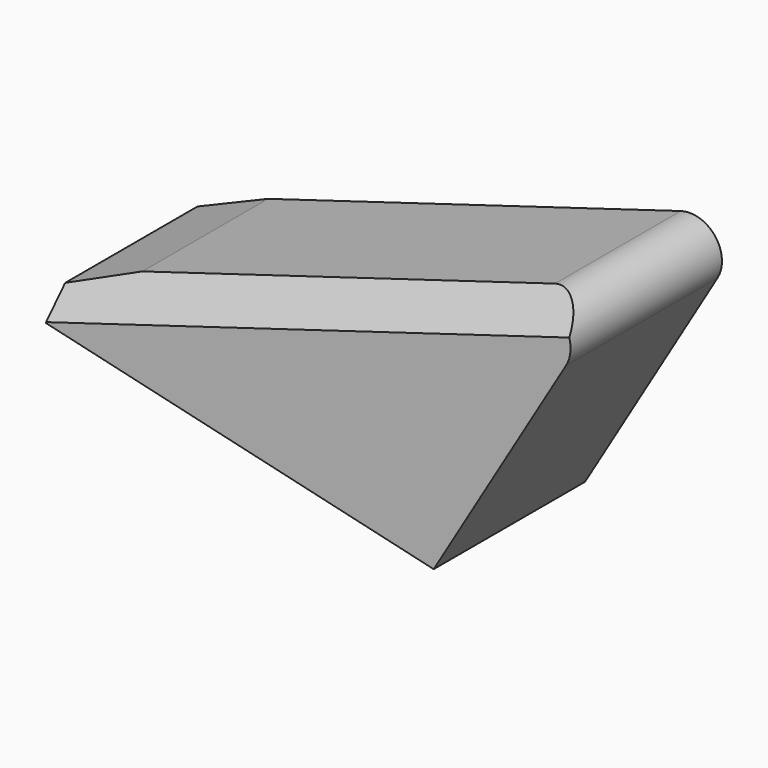
from build123d import *

# Parameters (mm, degrees)
F1_DEPTH = 30
F2_SIZE  = 5.08
F3_R     = 5.08


with BuildPart() as f1:
    # F0 (on Front) → F1 (new body)
    with BuildSketch(Plane.XZ):
        Polygon((-72.913893, 47.520347), (-72.913893, 43.428164), (-11.468264, 29.078148), (16.188771, 75.537905), (-61.714064, 52.23044), align=None)
    extrude(amount=F1_DEPTH)

    # F2
    f2_edges = [f1.edges().sort_by_distance(p)[0] for p in [
        (-22.762647, -30, 63.884173),
    ]]
    chamfer(f2_edges, length=F2_SIZE)

    # F3
    f3_edges = [f1.edges().sort_by_distance(p)[0] for p in [
        (16.188771, -12.46, 75.537905),
    ]]
    fillet(f3_edges, radius=F3_R)


solid = f1.part
